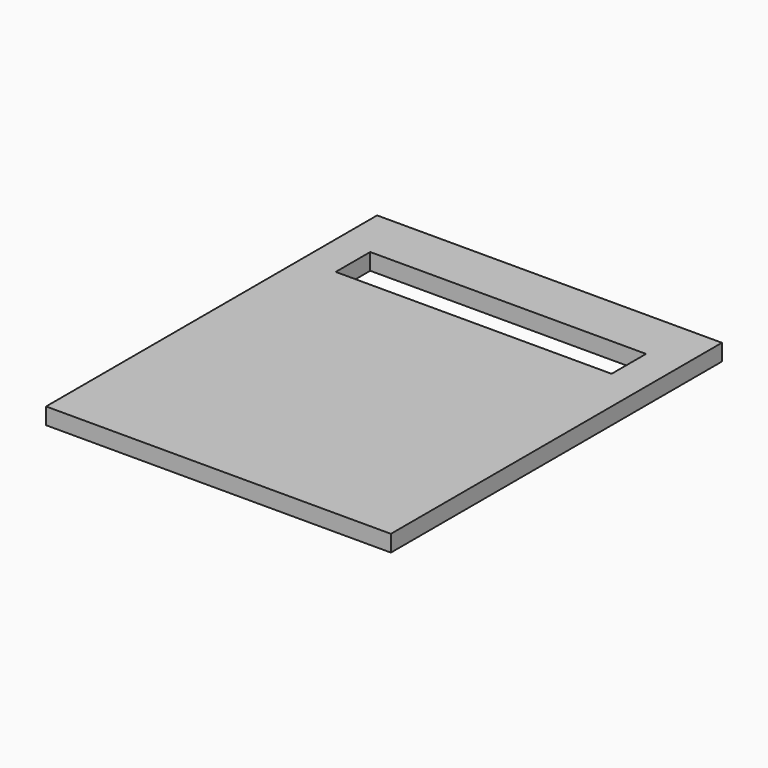
from build123d import *

# Parameters (mm, degrees)
F0_W     = 101.6
F0_H     = 15.875
F0_W_2   = 6.096
F0_H_2   = 152.4
F1_DEPTH = 6.096


with BuildPart() as f1:
    # F0 (on Top) → F1 (new body)
    with BuildSketch(Plane.XY):
        Polygon((63.5, 76.2), (0, 76.2), (-57.404, 76.2), (-57.404, -76.2), (0, -76.2), (63.5, -76.2), align=None)
        with Locations((0, 49.2125)):
            Rectangle(F0_W, F0_H, mode=Mode.SUBTRACT)
        with Locations((-60.452, 0)):
            Rectangle(F0_W_2, F0_H_2)
    extrude(amount=-F1_DEPTH)


solid = f1.part
